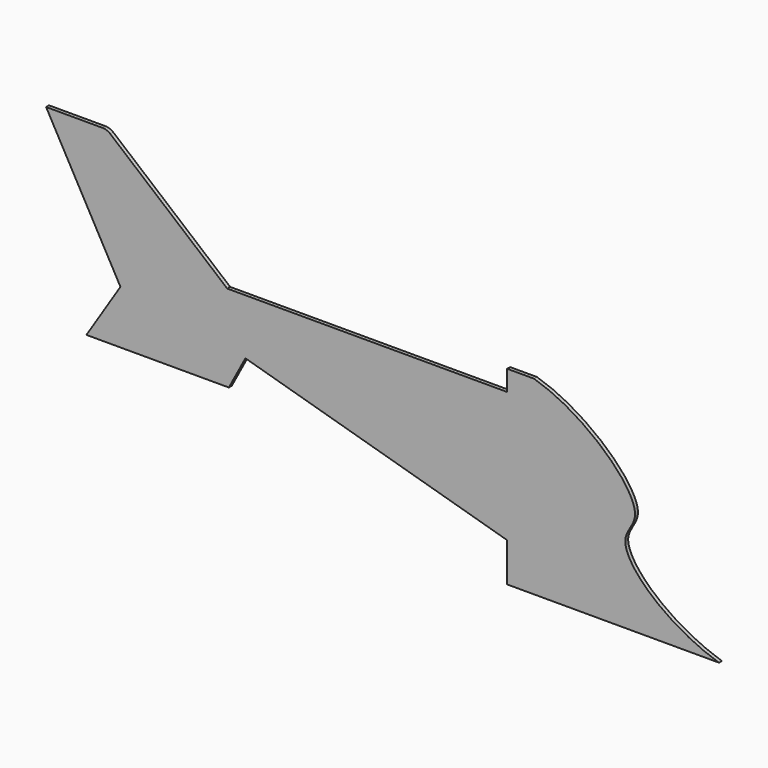
from build123d import *

# Parameters (mm, degrees)
F1_DEPTH = 1.5


with BuildPart() as f1:
    # F0 (on Front) → F1 (new body)
    with BuildSketch(Plane.XZ):
        with BuildLine():
            Line((11, 62), (0, 62))
            Line((0, 62), (0, 53.6))
            Line((0, 53.6), (0, 0))
            Line((0, 0), (0, -16))
            Line((0, -16), (87, -16))
            add(Edge.make_bspline(
                [(11, 62), (31.5050498735, 55.9866910222), (61.6297667235, 27.7423337667), (40.0721675156, 14.6337271946), (65.1601816989, -8.9823952961), (87, -16)],
                knots=[0, 0, 0, 0, 0.4113848141, 0.6062089181, 1, 1, 1, 1], degree=3))
        make_face()
        with BuildLine():
            Line((0, 0), (0, 53.6))
            Line((0, 53.6), (-114.999259066, 53.6))
            Line((-114.999259066, 53.6), (-163.0150387701, 93.8900230404))
            ThreePointArc((-163.0150387701, 93.8900230404), (-164.5188761019, 94.7582639287), (-166.2289768185, 95.0598008248))
            Line((-166.2289768185, 95.0598008248), (-189.4091256472, 95.0598008248))
            Line((-189.4091256472, 95.0598008248), (-158.8661195717, 39.958759275))
            Line((-158.8661195717, 39.958759275), (-172.8359093887, 18.0305816839))
            Line((-172.8359093887, 18.0305816839), (-114.3359093887, 18.0305816839))
            Line((-114.3359093887, 18.0305816839), (-107.5285717283, 30.8333217803))
            Line((-107.5285717283, 30.8333217803), (0, 0))
        make_face()
    extrude(amount=F1_DEPTH)


solid = f1.part
